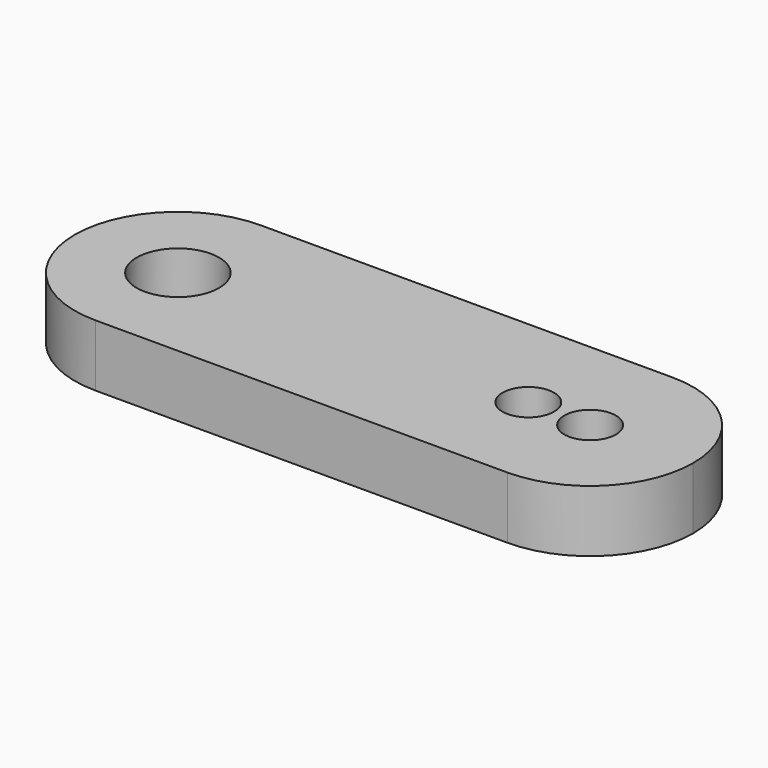
from build123d import *

# Parameters (mm, degrees)
F0_R     = 2
F0_R_2   = 1.25
F1_DEPTH = 3


with BuildPart() as f1:
    # F0 (on Top) → F1 (new body)
    with BuildSketch(Plane.XY):
        with BuildLine():
            ThreePointArc((0, 5), (1.464466, 1.464466), (5, 0))
            Line((5, 0), (25, 0))
            ThreePointArc((25, 0), (28.535534, 1.464466), (30, 5))
            ThreePointArc((30, 5), (28.535534, 8.535534), (25, 10))
            Line((25, 10), (5, 10))
            ThreePointArc((5, 10), (1.464466, 8.535534), (0, 5))
        make_face()
        with Locations((5, 5)):
            Circle(F0_R, mode=Mode.SUBTRACT)
        with Locations((22, 5)):
            Circle(F0_R_2, mode=Mode.SUBTRACT)
        with Locations((25, 5)):
            Circle(F0_R_2, mode=Mode.SUBTRACT)
    extrude(amount=F1_DEPTH)


solid = f1.part
